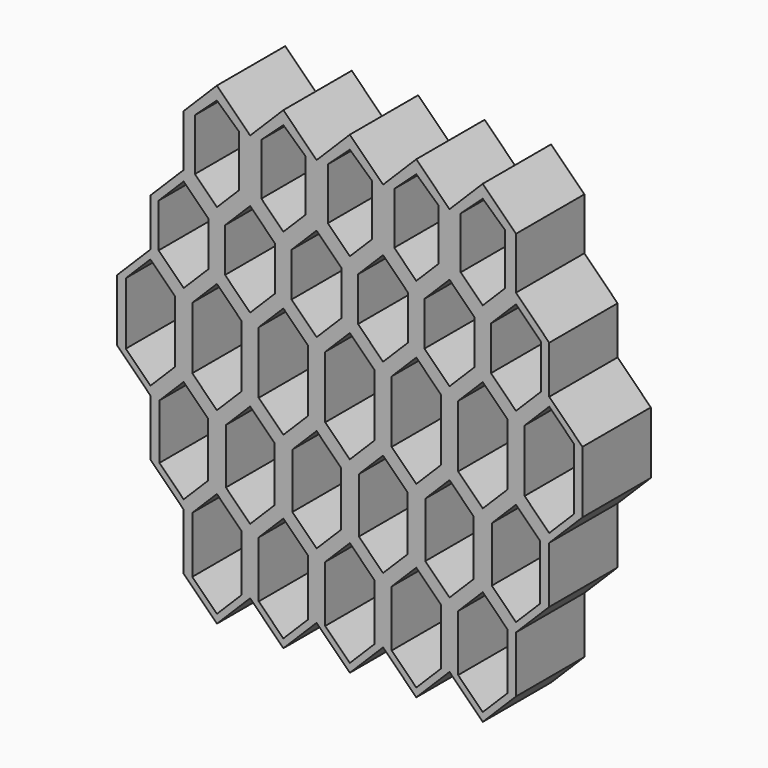
from build123d import *

# Parameters (mm, degrees)
F1_DEPTH = 25.4
F2_DEPTH = 25.4


with BuildPart() as f1:
    # F0 (on Front) → F1 (new body)
    with BuildSketch(Plane.XZ):
        Polygon((-32.792927, 49.329992), (-42.671209, 59.208274), (-52.54949, 49.329992), (-52.54949, 33.909589), (-42.671209, 24.031308), (-32.792927, 33.909589), align=None)
        Polygon((-49.212057, 33.909589), (-49.212057, 49.329992), (-42.671209, 55.301394), (-36.13036, 49.329992), (-36.13036, 33.909589), (-42.671209, 27.368741), align=None, mode=Mode.SUBTRACT)
        Polygon((-22.914645, 59.208274), (-32.792927, 49.329992), (-32.792927, 33.909589), (-22.914645, 24.031308), (-13.036363, 33.909589), (-13.036363, 49.329992), align=None)
        Polygon((-29.455494, 33.909589), (-29.455494, 49.329992), (-22.914645, 55.301394), (-16.373797, 49.329992), (-16.373797, 33.909589), (-22.914645, 27.368741), align=None, mode=Mode.SUBTRACT)
        Polygon((-42.671209, 24.031308), (-52.54949, 33.909589), (-62.427772, 24.031308), (-62.427772, 9.878282), (-52.54949, 0), (-42.671209, 9.878282), align=None)
        Polygon((-52.54949, 30.903467), (-45.104324, 23.4583), (-45.104324, 10.43158), (-52.54949, 2.986414), (-59.994657, 10.43158), (-59.994657, 23.4583), align=None, mode=Mode.SUBTRACT)
        Polygon((-3.158082, 59.208274), (-13.036363, 49.329992), (-13.036363, 33.909589), (-3.158082, 24.031308), (6.7202, 33.909589), (6.7202, 49.329992), align=None)
        Polygon((-9.69893, 33.909589), (-9.69893, 49.329992), (-3.158082, 55.301394), (3.382767, 49.329992), (3.382767, 33.909589), (-3.158082, 27.368741), align=None, mode=Mode.SUBTRACT)
        Polygon((-52.54949, 0), (-62.427772, 9.878282), (-72.306054, 0), (-72.306054, -18.456918), (-62.427772, -28.3352), (-52.54949, -18.456918), align=None)
        Polygon((-62.427772, 7.314722), (-55.11305, 0), (-55.11305, -18.456918), (-62.427772, -25.77164), (-69.742494, -18.456918), (-69.742494, 0), align=None, mode=Mode.SUBTRACT)
        Polygon((16.598482, 59.208274), (6.7202, 49.329992), (6.7202, 33.909589), (16.598482, 24.031308), (26.476763, 33.909589), (26.476763, 49.329992), align=None)
        Polygon((10.057633, 33.909589), (10.057633, 49.329992), (16.598482, 55.301394), (23.13933, 49.329992), (23.13933, 33.909589), (16.598482, 27.368741), align=None, mode=Mode.SUBTRACT)
        Polygon((-42.671209, -28.3352), (-52.54949, -18.456918), (-62.427772, -28.3352), (-62.427772, -45.0992), (-52.54949, -54.977482), (-42.671209, -45.0992), align=None)
        Polygon((-59.746496, -45.0992), (-59.746496, -28.746506), (-52.54949, -21.5495), (-45.352484, -28.746506), (-45.352484, -45.0992), (-52.54949, -52.296206), align=None, mode=Mode.SUBTRACT)
        Polygon((36.355045, 59.208274), (26.476763, 49.329992), (26.476763, 33.909589), (36.355045, 24.031308), (46.233327, 33.909589), (46.233327, 49.329992), align=None)
        Polygon((29.814197, 33.909589), (29.814197, 49.329992), (36.355045, 55.301394), (42.895894, 49.329992), (42.895894, 33.909589), (36.355045, 27.368741), align=None, mode=Mode.SUBTRACT)
        Polygon((-32.792927, -54.977482), (-42.671209, -45.0992), (-52.54949, -54.977482), (-52.54949, -71.741482), (-42.671209, -81.619763), (-32.792927, -71.741482), align=None)
        Polygon((-42.671209, -79.056203), (-49.98593, -71.741482), (-49.98593, -54.977482), (-42.671209, -47.66276), (-35.356487, -54.977482), (-35.356487, -71.741482), align=None, mode=Mode.SUBTRACT)
        Polygon((-13.036363, -54.977482), (-22.914645, -45.0992), (-32.792927, -54.977482), (-32.792927, -71.741482), (-22.914645, -81.619763), (-13.036363, -71.741482), align=None)
        Polygon((-30.229367, -71.741482), (-30.229367, -54.977482), (-22.914645, -47.66276), (-15.599923, -54.977482), (-15.599923, -71.741482), (-22.914645, -79.056203), align=None, mode=Mode.SUBTRACT)
        Polygon((6.7202, -54.977482), (-3.158082, -45.0992), (-13.036363, -54.977482), (-13.036363, -71.741482), (-3.158082, -81.619763), (6.7202, -71.741482), align=None)
        Polygon((-10.472803, -71.741482), (-10.472803, -54.977482), (-3.158082, -47.66276), (4.15664, -54.977482), (4.15664, -71.741482), (-3.158082, -79.056203), align=None, mode=Mode.SUBTRACT)
        Polygon((46.233327, 33.909589), (36.355045, 24.031308), (36.355045, 9.878282), (46.233327, 0), (56.111609, 9.878282), (56.111609, 24.031308), align=None)
        Polygon((38.78816, 10.43158), (38.78816, 23.4583), (46.233327, 30.903467), (53.678494, 23.4583), (53.678494, 10.43158), (46.233327, 2.986414), align=None, mode=Mode.SUBTRACT)
        Polygon((16.598482, -45.0992), (6.7202, -54.977482), (6.7202, -71.741482), (16.598482, -81.619763), (26.476763, -71.741482), (26.476763, -54.977482), align=None)
        Polygon((9.28376, -71.741482), (9.28376, -54.977482), (16.598482, -47.66276), (23.913203, -54.977482), (23.913203, -71.741482), (16.598482, -79.056203), align=None, mode=Mode.SUBTRACT)
        Polygon((56.111609, 9.878282), (46.233327, 0), (46.233327, -18.456918), (56.111609, -28.3352), (65.98989, -18.456918), (65.98989, 0), align=None)
        Polygon((48.796887, -18.456918), (48.796887, 0), (56.111609, 7.314722), (63.42633, 0), (63.42633, -18.456918), (56.111609, -25.77164), align=None, mode=Mode.SUBTRACT)
        Polygon((46.233327, -18.456918), (36.355045, -28.3352), (36.355045, -45.0992), (46.233327, -54.977482), (56.111609, -45.0992), (56.111609, -28.3352), align=None)
        Polygon((39.036321, -45.0992), (39.036321, -28.746506), (46.233327, -21.5495), (53.430333, -28.746506), (53.430333, -45.0992), (46.233327, -52.296206), align=None, mode=Mode.SUBTRACT)
        Polygon((36.355045, -45.0992), (26.476763, -54.977482), (26.476763, -71.741482), (36.355045, -81.619763), (46.233327, -71.741482), (46.233327, -54.977482), align=None)
        Polygon((29.040324, -71.741482), (29.040324, -54.977482), (36.355045, -47.66276), (43.669767, -54.977482), (43.669767, -71.741482), (36.355045, -79.056203), align=None, mode=Mode.SUBTRACT)
    extrude(amount=F1_DEPTH)

    # F0 (on Front) → F2 (join)
    with BuildSketch(Plane.XZ):
        Polygon((-22.914645, 24.031308), (-32.792927, 33.909589), (-42.671209, 24.031308), (-42.671209, 9.878282), (-32.792927, 0), (-22.914645, 9.878282), align=None)
        Polygon((-40.238094, 10.43158), (-40.238094, 23.4583), (-32.792927, 30.903467), (-25.34776, 23.4583), (-25.34776, 10.43158), (-32.792927, 2.986414), align=None, mode=Mode.SUBTRACT)
        Polygon((-13.036363, 33.909589), (-22.914645, 24.031308), (-22.914645, 9.878282), (-13.036363, 0), (-3.158082, 9.878282), (-3.158082, 24.031308), align=None)
        Polygon((-20.48153, 10.43158), (-20.48153, 23.4583), (-13.036363, 30.903467), (-5.591197, 23.4583), (-5.591197, 10.43158), (-13.036363, 2.986414), align=None, mode=Mode.SUBTRACT)
        Polygon((-13.036363, 0), (-22.914645, 9.878282), (-32.792927, 0), (-32.792927, -18.456918), (-22.914645, -28.3352), (-13.036363, -18.456918), align=None)
        Polygon((-30.229367, -18.456918), (-30.229367, 0), (-22.914645, 7.314722), (-15.599923, 0), (-15.599923, -18.456918), (-22.914645, -25.77164), align=None, mode=Mode.SUBTRACT)
        Polygon((-3.158082, 9.878282), (-13.036363, 0), (-13.036363, -18.456918), (-3.158082, -28.3352), (6.7202, -18.456918), (6.7202, 0), align=None)
        Polygon((-10.472803, -18.456918), (-10.472803, 0), (-3.158082, 7.314722), (4.15664, 0), (4.15664, -18.456918), (-3.158082, -25.77164), align=None, mode=Mode.SUBTRACT)
        Polygon((6.7202, 33.909589), (-3.158082, 24.031308), (-3.158082, 9.878282), (6.7202, 0), (16.598482, 9.878282), (16.598482, 24.031308), align=None)
        Polygon((-0.724967, 10.43158), (-0.724967, 23.4583), (6.7202, 30.903467), (14.165367, 23.4583), (14.165367, 10.43158), (6.7202, 2.986414), align=None, mode=Mode.SUBTRACT)
        Polygon((26.476763, 33.909589), (16.598482, 24.031308), (16.598482, 9.878282), (26.476763, 0), (36.355045, 9.878282), (36.355045, 24.031308), align=None)
        Polygon((19.031597, 10.43158), (19.031597, 23.4583), (26.476763, 30.903467), (33.92193, 23.4583), (33.92193, 10.43158), (26.476763, 2.986414), align=None, mode=Mode.SUBTRACT)
        Polygon((36.355045, 9.878282), (26.476763, 0), (26.476763, -18.456918), (36.355045, -28.3352), (46.233327, -18.456918), (46.233327, 0), align=None)
        Polygon((29.040324, -18.456918), (29.040324, 0), (36.355045, 7.314722), (43.669767, 0), (43.669767, -18.456918), (36.355045, -25.77164), align=None, mode=Mode.SUBTRACT)
        Polygon((16.598482, 9.878282), (6.7202, 0), (6.7202, -18.456918), (16.598482, -28.3352), (26.476763, -18.456918), (26.476763, 0), align=None)
        Polygon((9.28376, -18.456918), (9.28376, 0), (16.598482, 7.314722), (23.913203, 0), (23.913203, -18.456918), (16.598482, -25.77164), align=None, mode=Mode.SUBTRACT)
        Polygon((6.7202, -18.456918), (-3.158082, -28.3352), (-3.158082, -45.0992), (6.7202, -54.977482), (16.598482, -45.0992), (16.598482, -28.3352), align=None)
        Polygon((-0.476806, -45.0992), (-0.476806, -28.746506), (6.7202, -21.5495), (13.917206, -28.746506), (13.917206, -45.0992), (6.7202, -52.296206), align=None, mode=Mode.SUBTRACT)
        Polygon((-3.158082, -28.3352), (-13.036363, -18.456918), (-22.914645, -28.3352), (-22.914645, -45.0992), (-13.036363, -54.977482), (-3.158082, -45.0992), align=None)
        Polygon((-20.233369, -45.0992), (-20.233369, -28.746506), (-13.036363, -21.5495), (-5.839357, -28.746506), (-5.839357, -45.0992), (-13.036363, -52.296206), align=None, mode=Mode.SUBTRACT)
        Polygon((-22.914645, -28.3352), (-32.792927, -18.456918), (-42.671209, -28.3352), (-42.671209, -45.0992), (-32.792927, -54.977482), (-22.914645, -45.0992), align=None)
        Polygon((-39.989933, -45.0992), (-39.989933, -28.746506), (-32.792927, -21.5495), (-25.595921, -28.746506), (-25.595921, -45.0992), (-32.792927, -52.296206), align=None, mode=Mode.SUBTRACT)
        Polygon((-32.792927, 0), (-42.671209, 9.878282), (-52.54949, 0), (-52.54949, -18.456918), (-42.671209, -28.3352), (-32.792927, -18.456918), align=None)
        Polygon((-49.98593, -18.456918), (-49.98593, 0), (-42.671209, 7.314722), (-35.356487, 0), (-35.356487, -18.456918), (-42.671209, -25.77164), align=None, mode=Mode.SUBTRACT)
        Polygon((26.476763, -18.456918), (16.598482, -28.3352), (16.598482, -45.0992), (26.476763, -54.977482), (36.355045, -45.0992), (36.355045, -28.3352), align=None)
        Polygon((19.279757, -45.0992), (19.279757, -28.746506), (26.476763, -21.5495), (33.673769, -28.746506), (33.673769, -45.0992), (26.476763, -52.296206), align=None, mode=Mode.SUBTRACT)
    extrude(amount=F2_DEPTH)


solid = f1.part
